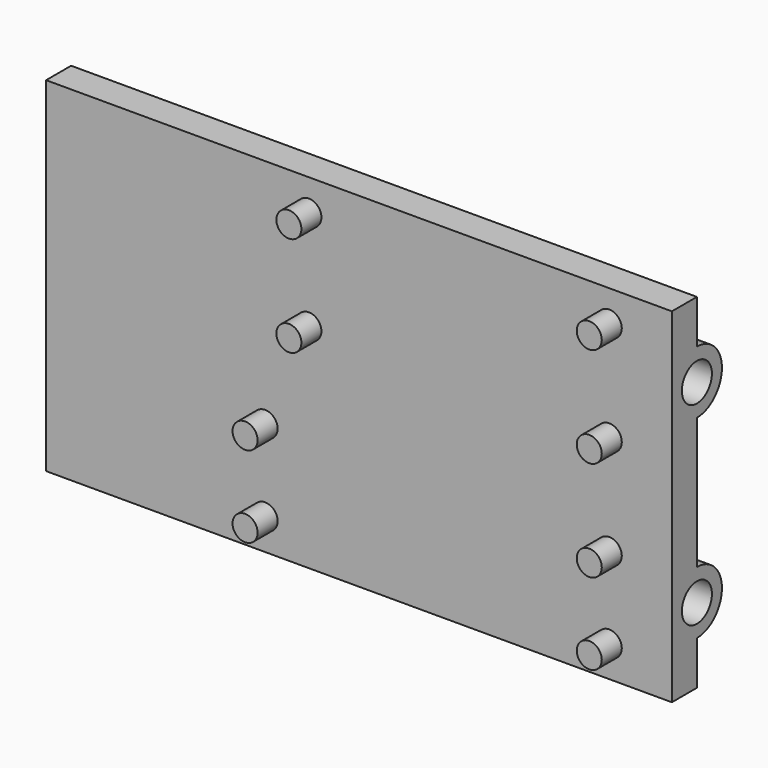
from build123d import *

# Parameters (mm, degrees)
F6_W     = 127
F6_H     = 69.85
F0_DEPTH = 6.35
F1_R     = 6.35
F2_DEPTH = 127
F7_R     = 3.81
F8_DEPTH = 127
F3_R     = 2.54
F4_DEPTH = 5.08
F9_R     = 2.54
F5_DEPTH = 5.08


with BuildPart() as f0:
    # F6 (on Front) → F0 (new body)
    with BuildSketch(Plane.XZ):
        with Locations((-32.109398, 34.925)):
            Rectangle(F6_W, F6_H)
    extrude(amount=F0_DEPTH)

    # F1 (on face) → F2 (join)
    with BuildSketch(Plane.YZ.offset(31.390602)):
        with Locations((0, 54.61)):
            Circle(F1_R)
        with Locations((0, 15.24)):
            Circle(F1_R)
    extrude(amount=-F2_DEPTH)

    # F7 (on face) → F8 (cut)
    with BuildSketch(Plane.YZ.offset(31.390602)):
        with Locations((0, 54.61)):
            Circle(F7_R)
        with Locations((0, 15.24)):
            Circle(F7_R)
    extrude(amount=-F8_DEPTH, mode=Mode.SUBTRACT)

    # F3 (on face) → F4 (join)
    with BuildSketch(Plane.XZ.offset(6.35)):
        with Locations((-51.159398, 6.35)):
            Circle(F3_R)
        with Locations((-51.159398, 22.86)):
            Circle(F3_R)
        with Locations((18.690602, 6.35)):
            Circle(F3_R)
        with Locations((18.690602, 22.86)):
            Circle(F3_R)
    extrude(amount=F4_DEPTH)

    # F9 (on face) → F5 (join)
    with BuildSketch(Plane.XZ.offset(6.35)):
        with Locations((-42.269398, 43.18)):
            Circle(F9_R)
        with Locations((-42.269398, 63.5)):
            Circle(F9_R)
        with Locations((18.690602, 43.18)):
            Circle(F9_R)
        with Locations((18.690602, 63.5)):
            Circle(F9_R)
    extrude(amount=F5_DEPTH)


solid = f0.part
